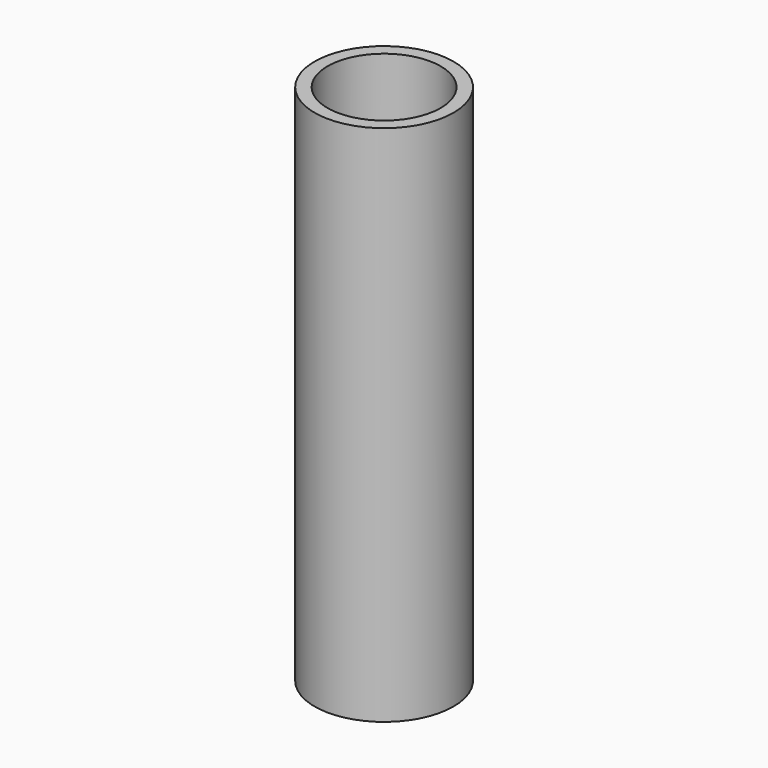
from build123d import *

# Parameters (mm, degrees)
F0_W = 20
F0_H = 150.551164
F2_T = -3.7


with BuildPart() as f1:
    # F0 (on Front) → F1 (revolve)
    with BuildSketch(Plane.XZ):
        with Locations((10, -4.881889)):
            Rectangle(F0_W, F0_H)
    revolve(axis=Axis((0, 0, -4.881889), (0, 0, -1)))

    # F2
    f2_openings = [f1.faces().sort_by_distance(p)[0] for p in [
        (0, 0, -80.157471),
        (0, 0, 70.393693),
    ]]
    offset(amount=F2_T, openings=f2_openings)


solid = f1.part
